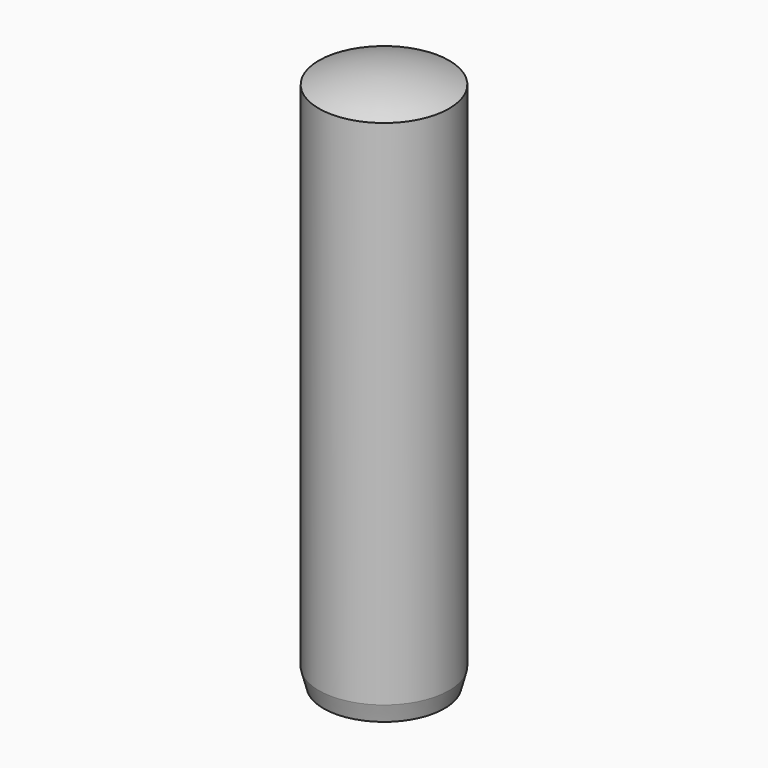
from build123d import *

# Parameters (mm, degrees)
F0_R     = 1.5
F1_DEPTH = 6.25


with BuildPart() as f1:
    # F0 (on Top) → F1 (new body, symmetric)
    with BuildSketch(Plane.XY):
        Circle(F0_R)
    extrude(amount=F1_DEPTH, both=True)

    # F2 (on Front) → F3 (revolve, cut)
    with BuildSketch(Plane.XZ):
        with BuildLine():
            Line((-1.6585878329, 5.95), (-1.5, 5.95))
            ThreePointArc((-1.5, 5.95), (-0.764852927, 6.1742646352), (0, 6.25))
            Line((0, 6.25), (0, 6.3502374105))
            Line((0, 6.3502374105), (-1.6585878329, 6.3502374105))
            Line((-1.6585878329, 6.3502374105), (-1.6585878329, 6.25))
            Line((-1.6585878329, 6.25), (-1.6585878329, 5.95))
        make_face()
    revolve(axis=Axis((0, 0, 3.125), (0, 0, -1)), mode=Mode.SUBTRACT)

    # F4 (on Front) → F5 (revolve, cut)
    with BuildSketch(Plane.XZ):
        Polygon((-0.9272391541, -7.9875725775), (-1.5, -5.85), (-1.5, -7.9875725775), align=None)
    revolve(axis=Axis((0, 0, -6.25), (0, 0, 1)), mode=Mode.SUBTRACT)


solid = f1.part
